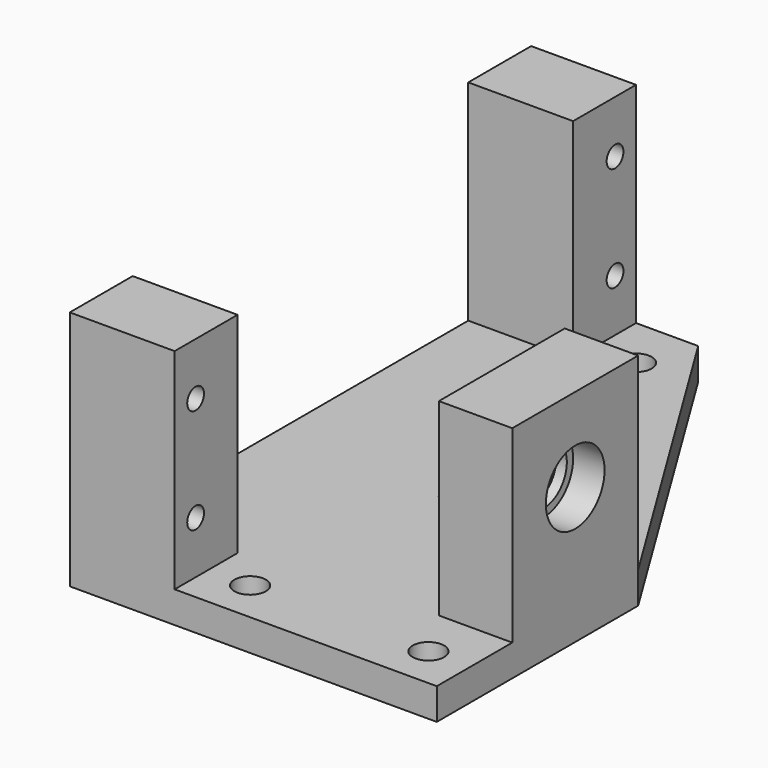
from build123d import *

# Parameters (mm, degrees)
F0_R      = 1.5
F1_DEPTH  = 3
F3_DEPTH  = 18
F2_W      = 10
F2_H      = 7.5
F4_DEPTH  = 20
F5_R      = 3.5
F6_DEPTH  = 3
F7_R      = 2.75
F8_DEPTH  = 25
F9_R      = 1
F10_DEPTH = 25
F11_R     = 3.5
F12_DEPTH = 3


with BuildPart() as f1:
    # F0 (on Top) → F1 (new body)
    with BuildSketch(Plane.XY):
        Polygon((0, 55), (0, 0), (35, 0), (35, 24), (15.932095, 55), align=None)
        with Locations((14, 4)):
            Circle(F0_R, mode=Mode.SUBTRACT)
        with Locations((31, 4)):
            Circle(F0_R, mode=Mode.SUBTRACT)
        with Locations((14, 50)):
            Circle(F0_R, mode=Mode.SUBTRACT)
        Polygon((15.932095, 24), (15.932095, 43.857069), (28.146053, 24), align=None, mode=Mode.SUBTRACT)
    extrude(amount=F1_DEPTH)

    # F2 (on face) → F3 (join)
    with BuildSketch(Plane.XY.offset(3)):
        Polygon((28, 9), (35, 9), (35, 24), (28.146053, 24), (28, 24), align=None)
    extrude(amount=F3_DEPTH)

    # F2 (on face) → F4 (join)
    with BuildSketch(Plane.XY.offset(3)):
        with Locations((5, 3.75)):
            Rectangle(F2_W, F2_H)
        with Locations((5, 51.25)):
            Rectangle(F2_W, F2_H)
    extrude(amount=F4_DEPTH)

    # F5 (on face) → F6 (cut)
    with BuildSketch(Plane(origin=(28, 0, 0), x_dir=(0, -1, 0), z_dir=(-1, 0, 0))):
        with Locations((-16.5, 13)):
            Circle(F5_R)
    extrude(amount=-F6_DEPTH, mode=Mode.SUBTRACT)

    # F7 (on face) → F8 (cut)
    with BuildSketch(Plane(origin=(31, 0, 0), x_dir=(0, -1, 0), z_dir=(-1, 0, 0))):
        with Locations((-16.5, 13)):
            Circle(F7_R)
    extrude(amount=-F8_DEPTH, mode=Mode.SUBTRACT)

    # F9 (on face) → F10 (cut)
    with BuildSketch(Plane(origin=(0, 0, 0), x_dir=(0, -1, 0), z_dir=(-1, 0, 0))):
        with Locations((-2.5, 18)):
            Circle(F9_R)
        with Locations((-2.5, 8)):
            Circle(F9_R)
        with Locations((-52.5, 18)):
            Circle(F9_R)
        with Locations((-52.5, 8)):
            Circle(F9_R)
    extrude(amount=-F10_DEPTH, mode=Mode.SUBTRACT)

    # F11 (on face) → F12 (cut)
    with BuildSketch(Plane.YZ.offset(35)):
        with Locations((16.5, 13)):
            Circle(F11_R)
    extrude(amount=-F12_DEPTH, mode=Mode.SUBTRACT)


solid = f1.part
